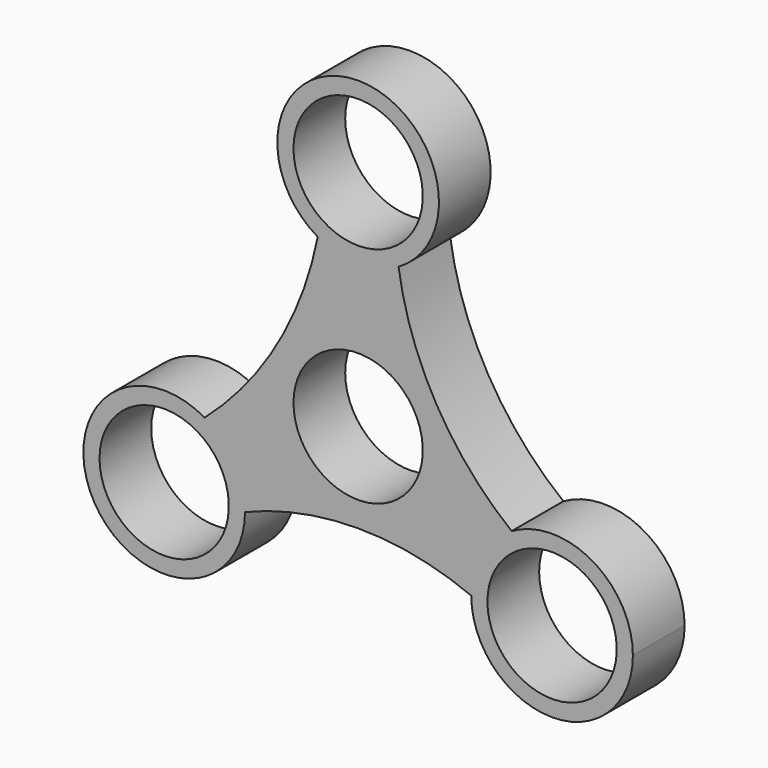
from build123d import *

# Parameters (mm, degrees)
F0_R     = 15.7260613119
F1_DEPTH = 12.7
F2_D     = 25.4


with BuildPart() as f1:
    # F0 (on Front) → F1 (new body)
    with BuildSketch(Plane.XZ):
        with BuildLine():
            ThreePointArc((-22.225, -21.624488881), (-24.3518467149, -13.686988881), (-30.1625, -7.8763355959))
            ThreePointArc((-30.1625, -7.8763355959), (-51.8481532851, -29.561988881), (-22.225, -21.624488881))
        make_face()
        with BuildLine():
            ThreePointArc((7.9375, 30.6184936023), (0, 28.4916468874), (-7.9375, 30.6184936023))
            ThreePointArc((-7.9375, 30.6184936023), (-15.8714708467, 9.5359543409), (-30.1625, -7.8763355959))
            ThreePointArc((-30.1625, -7.8763355959), (-24.3518467149, -13.686988881), (-22.225, -21.624488881))
            ThreePointArc((-22.225, -21.624488881), (0, -17.2054544996), (22.225, -21.624488881))
            ThreePointArc((22.225, -21.624488881), (24.3518467149, -13.686988881), (30.1625, -7.8763355959))
            ThreePointArc((30.1625, -7.8763355959), (15.3716015359, 9.2473546597), (7.9375, 30.6184936023))
        make_face()
        with Locations((0, 0.3947862569)):
            Circle(F0_R, mode=Mode.SUBTRACT)
        with BuildLine():
            ThreePointArc((53.975, -21.624488881), (46.0375, -7.8763355959), (30.1625, -7.8763355959))
            ThreePointArc((30.1625, -7.8763355959), (24.3518467149, -13.686988881), (22.225, -21.624488881))
            ThreePointArc((22.225, -21.624488881), (38.1, -37.499488881), (53.975, -21.624488881))
        make_face()
        with Locations((0, 0.3947862569)):
            Circle(F0_R)
        with BuildLine():
            ThreePointArc((7.9375, 30.6184936023), (13.7481532851, 36.4291468874), (15.875, 44.3666468874))
            ThreePointArc((15.875, 44.3666468874), (-7.9375, 58.1148001724), (-7.9375, 30.6184936023))
            ThreePointArc((-7.9375, 30.6184936023), (0, 28.4916468874), (7.9375, 30.6184936023))
        make_face()
    extrude(amount=F1_DEPTH)

    # F2 (through all)
    with Locations(Plane(origin=(0, 0, 0), x_dir=(1, 0, 0), z_dir=(0, 1, 0))):
        with Locations((-38.1, 21.624488881), (38.1, 21.624488881), (0, -44.3666468874), (0, -0.3947862569)):
            Hole(F2_D / 2)


solid = f1.part
